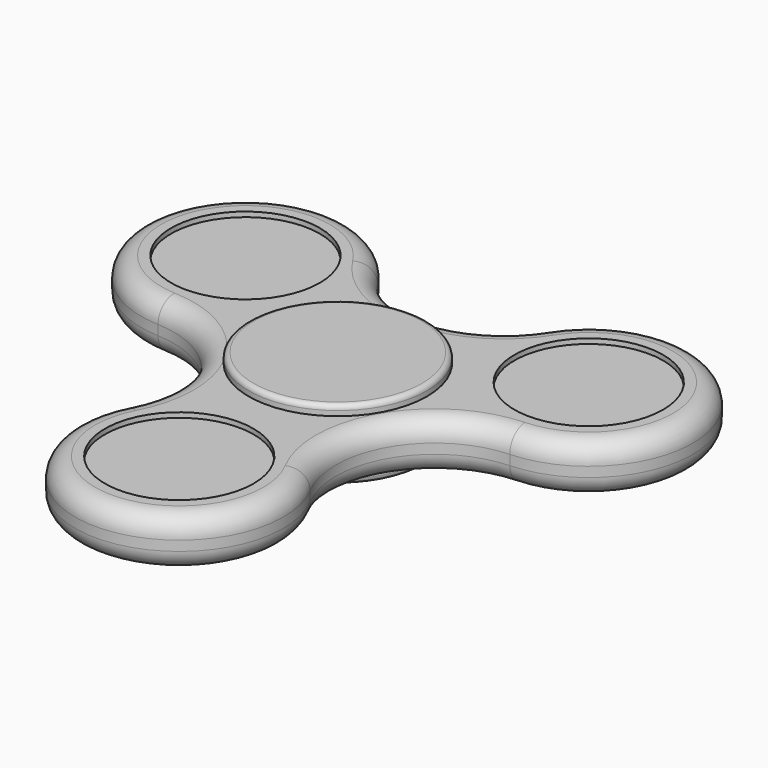
from build123d import *

# Parameters (mm, degrees)
F0_R     = 7.5
F1_DEPTH = 2.5
F2_DEPTH = 2
F3_R     = 7
F3_R_2   = 3
F4_DEPTH = 5.1
F3_R_3   = 9
F5_DEPTH = 1
F6_R     = 2.9
F7_DEPTH = 5.1
F6_R_2   = 9
F6_R_3   = 7
F6_R_4   = 3
F8_DEPTH = 1
F9_R     = 2
F10_R    = 0.5
F10_2_R  = 0.5


with BuildPart() as f1:
    # F0 (on Top) → F1 (new body, symmetric)
    with BuildSketch(Plane.XY):
        with BuildLine():
            ThreePointArc((-17.748936717, -0.4912558304), (-9.4967099566, -5.4829280499), (-9.2999083874, -15.1254021719))
            ThreePointArc((-9.2999083874, -15.1254021719), (0, -30.5), (9.2999083874, -15.1254021719))
            ThreePointArc((9.2999083874, -15.1254021719), (9.4967099566, -5.4829280499), (17.748936717, -0.4912558304))
            ThreePointArc((17.748936717, -0.4912558304), (26.4137748154, 15.25), (8.4490283296, 15.6166580023))
            ThreePointArc((8.4490283296, 15.6166580023), (0, 10.9658560997), (-8.4490283296, 15.6166580023))
            ThreePointArc((-8.4490283296, 15.6166580023), (-26.4137748154, 15.25), (-17.748936717, -0.4912558304))
        make_face()
        with Locations((0, -20)):
            Circle(F0_R, mode=Mode.SUBTRACT)
        with Locations((-17.3205080757, 10)):
            Circle(F0_R, mode=Mode.SUBTRACT)
        Circle(F0_R, mode=Mode.SUBTRACT)
        with Locations((17.3205080757, 10)):
            Circle(F0_R, mode=Mode.SUBTRACT)
    extrude(amount=F1_DEPTH, both=True)

    # F0 (on Top) → F2 (join, symmetric)
    with BuildSketch(Plane.XY):
        with Locations((17.3205080757, 10)):
            Circle(F0_R)
        with Locations((-17.3205080757, 10)):
            Circle(F0_R)
        with Locations((0, -20)):
            Circle(F0_R)
    extrude(amount=F2_DEPTH, both=True)

    # F9
    f9_edges = [f1.edges().sort_by_distance(p)[0] for p in [
        (-26.413775, 15.25, 2.5),
        (-26.413775, 15.25, -2.5),
    ]]
    fillet(f9_edges, radius=F9_R)


with BuildPart() as f4:
    # F3 (on face) → F4 (new body)
    with BuildSketch(Plane(origin=(0, 0, -2.5), x_dir=(1, 0, 0), z_dir=(0, 0, -1))):
        Circle(F3_R)
        Circle(F3_R_2, mode=Mode.SUBTRACT)
    extrude(amount=-F4_DEPTH)

    # F3 (on face) → F5 (join)
    with BuildSketch(Plane(origin=(0, 0, -2.5), x_dir=(1, 0, 0), z_dir=(0, 0, -1))):
        Circle(F3_R_3)
        Circle(F3_R, mode=Mode.SUBTRACT)
        Circle(F3_R)
        Circle(F3_R_2, mode=Mode.SUBTRACT)
        Circle(F3_R_2)
    extrude(amount=F5_DEPTH)

    # F10#2
    f10_2_edges = [f4.edges().sort_by_distance(p)[0] for p in [
        (-9, 0, -3.5),
    ]]
    fillet(f10_2_edges, radius=F10_2_R)


with BuildPart() as f7:
    # F6 (on face) → F7 (new body, through all)
    with BuildSketch(Plane.XY.offset(2.6)):
        Circle(F6_R)
    extrude(amount=-F7_DEPTH)


with BuildPart() as f8:
    # F6 (on face) → F8 (new body)
    with BuildSketch(Plane.XY.offset(2.6)):
        Circle(F6_R_2)
        Circle(F6_R_3, mode=Mode.SUBTRACT)
        Circle(F6_R_3)
        Circle(F6_R_4, mode=Mode.SUBTRACT)
        Circle(F6_R_4)
        Circle(F6_R, mode=Mode.SUBTRACT)
        Circle(F6_R)
    extrude(amount=F8_DEPTH)

    # F10
    f10_edges = [f8.edges().sort_by_distance(p)[0] for p in [
        (-9, 0, 3.6),
    ]]
    fillet(f10_edges, radius=F10_R)


solid = Compound([f1.part, f4.part, f7.part, f8.part])
